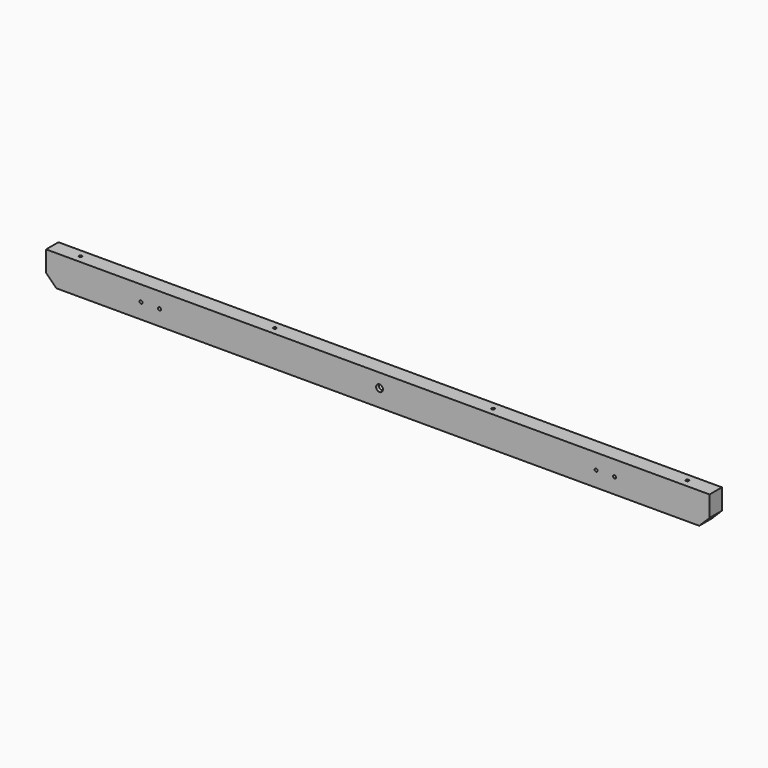
from build123d import *

# Parameters (mm, degrees)
F1_DEPTH = 57.15
F3_D     = 11.1125
F5_D     = 11.1125
F7_D     = 25.4
F7_DEPTH = 12.7
F7_TIP   = 7.6309298617


with BuildPart() as f1:
    # F0 (on Front) → F1 (new body)
    with BuildSketch(Plane.XZ):
        Polygon((2451.1, 0), (0, 0), (0, -76.2), (38.1, -114.3), (2413, -114.3), (2451.1, -76.2), align=None)
    extrude(amount=F1_DEPTH)

    # F3 (through all)
    with Locations(Plane.XY):
        with Locations((104.775, -28.575), (822.325, -28.575), (1628.775, -28.575), (2346.325, -28.575)):
            Hole(F3_D / 2)

    # F5 (through all)
    with Locations(Plane.XZ.offset(57.15)):
        with Locations((350.8375, -57.15), (419.1, -57.15), (2032, -57.15), (2100.2625, -57.15)):
            Hole(F5_D / 2)

    # F7
    with Locations(Plane.XZ.offset(57.15)):
        with Locations((1231.9, -50.8)):
            Hole(F7_D / 2, depth=F7_DEPTH)
            with Locations((0, 0, -(F7_DEPTH + F7_TIP / 2))):  # 118° drill point
                Cone(0, F7_D / 2, F7_TIP, mode=Mode.SUBTRACT)


solid = f1.part
